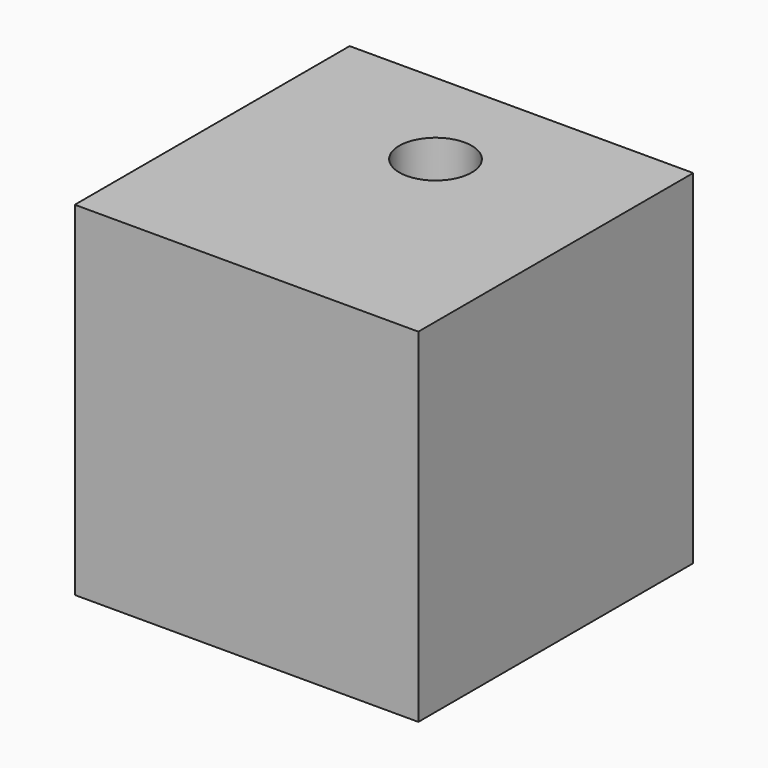
from build123d import *

# Parameters (mm, degrees)
F0_W     = 50.8
F0_H     = 50.8
F1_DEPTH = 50.8
F3_D     = 10.71626
F5_D     = 5.1054
F5_DEPTH = 13.97
F5_TIP   = 1.5338169022


with BuildPart() as f1:
    # F0 (on Top) → F1 (new body)
    with BuildSketch(Plane.XY):
        with Locations((-25.4, 25.4)):
            Rectangle(F0_W, F0_H)
    extrude(amount=F1_DEPTH)

    # F3 (through all)
    with Locations(Plane.XY.offset(50.8)):
        with Locations((-25.4, 34.925)):
            Hole(F3_D / 2)

    # F5
    with Locations(Plane(origin=(0, 50.8, 0), x_dir=(-1, 0, 0), z_dir=(0, 1, 0))):
        with Locations((12.7, 25.4)):
            Hole(F5_D / 2, depth=F5_DEPTH)
            with Locations((0, 0, -(F5_DEPTH + F5_TIP / 2))):  # 118° drill point
                Cone(0, F5_D / 2, F5_TIP, mode=Mode.SUBTRACT)


solid = f1.part
